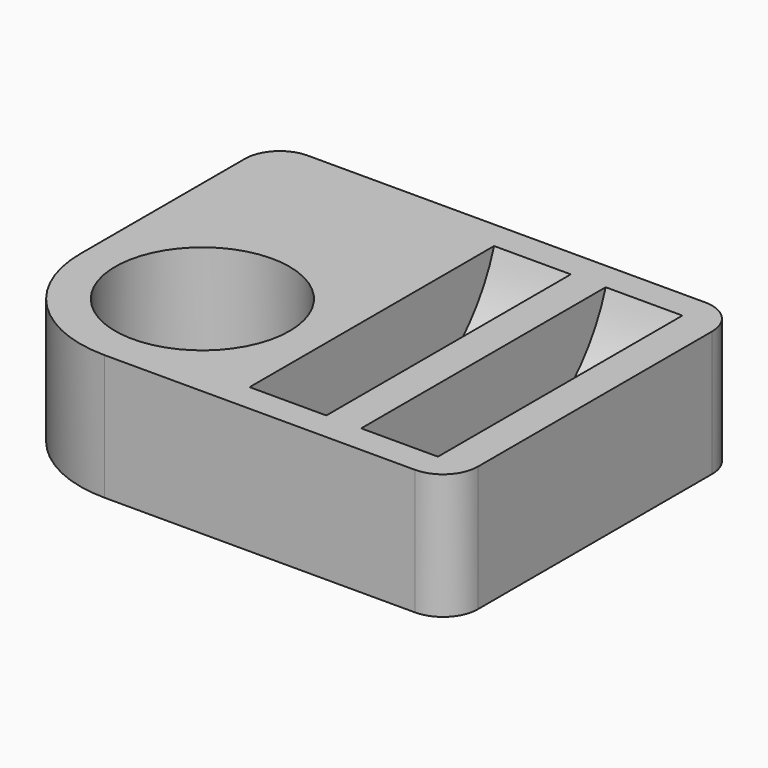
from build123d import *

# Parameters (mm, degrees)
F0_R     = 12.5
F1_DEPTH = 25
F2_W     = 11
F2_H     = 23
F4_W     = 82.212326
F4_H     = 18.054354
F5_DEPTH = 52.001


with BuildPart() as f1:
    # F0 (on Top) → F1 (new body)
    with BuildSketch(Plane.XY):
        with BuildLine():
            ThreePointArc((0, 17.5), (5.125631, 5.125631), (17.5, 0))
            Line((17.5, 0), (62, 0))
            ThreePointArc((62, 0), (65.535534, 1.464466), (67, 5))
            Line((67, 5), (67, 47))
            ThreePointArc((67, 47), (65.535534, 50.535534), (62, 52))
            Line((62, 52), (5, 52))
            ThreePointArc((5, 52), (1.464466, 50.535534), (0, 47))
            Line((0, 47), (0, 17.5))
        make_face()
        with Locations((17.5, 17.5)):
            Circle(F0_R, mode=Mode.SUBTRACT)
    extrude(amount=F1_DEPTH)

    # F2 (on face) → F3 (revolve, cut)
    with BuildSketch(Plane.XY.offset(25)):
        with Locations((40.5, 14.5)):
            Rectangle(F2_W, F2_H)
        with Locations((56.5, 14.5)):
            Rectangle(F2_W, F2_H)
    revolve(axis=Axis((40.5, 26, 25), (1, 0, 0)), mode=Mode.SUBTRACT)

    # F4 (on face) → F5 (cut, through all)
    with BuildSketch(Plane.XZ):
        with Locations((41.106163, 27.027177)):
            Rectangle(F4_W, F4_H)
    extrude(amount=-F5_DEPTH, mode=Mode.SUBTRACT)


solid = f1.part
